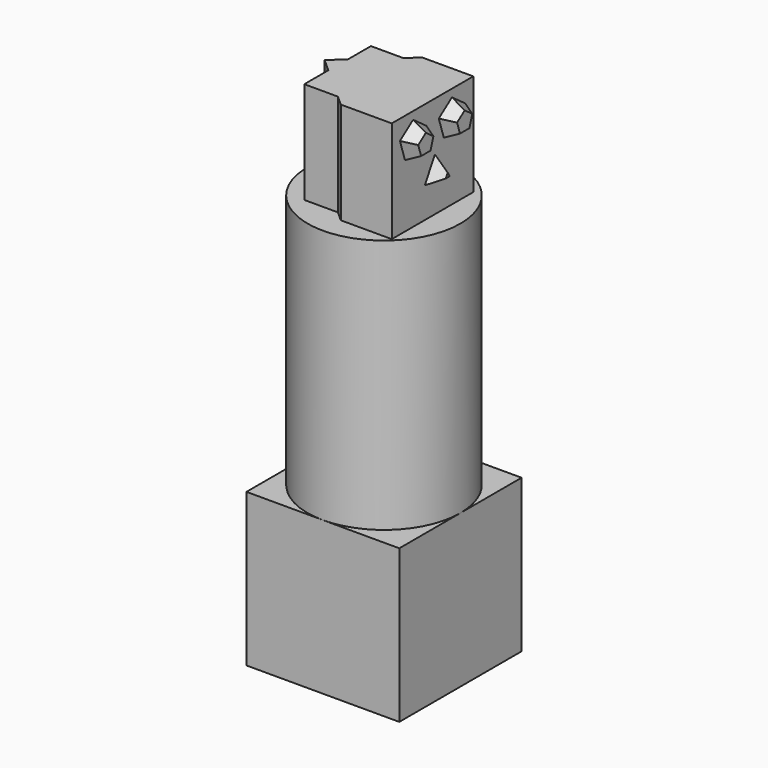
from build123d import *

# Parameters (mm, degrees)
F0_W     = 76.2
F0_H     = 76.2
F1_DEPTH = 76.2
F2_R     = 38.1
F3_DEPTH = 127
F5_DEPTH = 50.8
F7_DEPTH = 25.4
F8_DEPTH = 6.35
F8_TAPER = 25


with BuildPart() as f1:
    # F0 (on Top) → F1 (new body)
    with BuildSketch(Plane.XY):
        Rectangle(F0_W, F0_H)
    extrude(amount=F1_DEPTH)

    # F2 (on face) → F3 (join)
    with BuildSketch(Plane.XY.offset(76.2)):
        Circle(F2_R)
    extrude(amount=F3_DEPTH)


with BuildPart() as f5:
    # F4 (on face) → F5 (new body)
    with BuildSketch(Plane.XY.offset(203.2)):
        Polygon((25.4, 23.8873343915), (0, 23.8873343915), (-5.5644540802, 18.9103353591), (-21.6480437666, 4.5247354147), (-28.3980633142, -1.5126656085), (-21.8382618305, -7.3799304232), (-5.0683489621, -22.3793964833), (0, -26.9126656085), (25.4, -26.9126656085), align=None)
        Polygon((-21.6480437666, 4.5247354147), (-5.5644540802, 18.9103353591), (-21.6480437666, 18.9103353591), align=None)
        Polygon((-21.8382618305, -22.3793964833), (-5.0683489621, -22.3793964833), (-21.8382618305, -7.3799304232), align=None)
    extrude(amount=F5_DEPTH)

    # F6 (on face) → F7 (cut)
    with BuildSketch(Plane.YZ.offset(25.4)):
        Polygon((-18.6930529457, 234.5553676311), (-8.5330529457, 234.5553676311), (-5.3934402828, 244.2181018367), (-13.6130529457, 250.19), (-21.8326656085, 244.2181018367), align=None)
        Polygon((5.5077217286, 234.5553676311), (15.6677217286, 234.5553676311), (18.8073343915, 244.2181018367), (10.5877217286, 250.19), (2.3681090658, 244.2181018367), align=None)
    extrude(amount=-F7_DEPTH, mode=Mode.SUBTRACT)

    # F6 (on face) → F8 (join)
    with BuildSketch(Plane.YZ.offset(25.4)):
        Polygon((-18.6930529457, 234.5553676311), (-8.5330529457, 234.5553676311), (-5.3934402828, 244.2181018367), (-13.6130529457, 250.19), (-21.8326656085, 244.2181018367), align=None)
        Polygon((5.5077217286, 234.5553676311), (15.6677217286, 234.5553676311), (18.8073343915, 244.2181018367), (10.5877217286, 250.19), (2.3681090658, 244.2181018367), align=None)
        Polygon((-6.35, 218.44), (6.35, 218.44), (0, 229.4385226281), align=None)
    extrude(amount=F8_DEPTH, taper=F8_TAPER)


solid = Compound([f1.part, f5.part])
